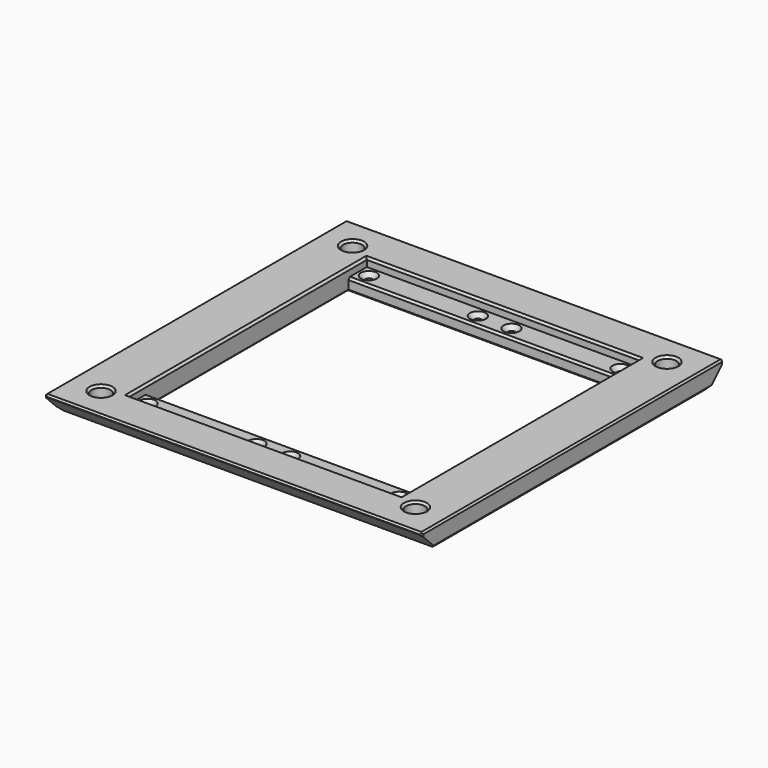
from build123d import *

# Parameters (mm, degrees)
SKETCH_W        = 90
SKETCH_H        = 90
PAD_DEPTH       = 5
SKETCH001_R     = 2.25
POCKET_DEPTH    = 5
SKETCH002_W     = 65
SKETCH002_H     = 71
POCKET001_DEPTH = 2
SKETCH003_R     = 0.9
POCKET002_DEPTH = 5
SKETCH004_W     = 65
SKETCH004_H     = 60
POCKET003_DEPTH = 3
CHAMFER_SIZE    = 4.5
CHAMFER001_SIZE = 1
CHAMFER002_SIZE = 0.5
CHAMFER003_SIZE = 0.5
CHAMFER004_SIZE = 0.5
CHAMFER005_SIZE = 0.5
CHAMFER006_SIZE = 1
CHAMFER007_SIZE = 0.5
CHAMFER008_SIZE = 0.5
CHAMFER009_SIZE = 0.4
CHAMFER010_SIZE = 0.5


with BuildPart() as part:
    # Sketch → Pad (new body)
    with BuildSketch(Plane.XY):
        with Locations((45, 45)):
            Rectangle(SKETCH_W, SKETCH_H)
    extrude(amount=PAD_DEPTH)

    # Sketch001 (on Face6 of Pad) → Pocket (cut)
    with BuildSketch(Plane.XY.offset(5)):
        with Locations((7.5, 82.5)):
            Circle(SKETCH001_R)
        with Locations((82.5, 82.5)):
            Circle(SKETCH001_R)
        with Locations((82.5, 7.5)):
            Circle(SKETCH001_R)
        with Locations((7.5, 7.5)):
            Circle(SKETCH001_R)
    extrude(amount=-POCKET_DEPTH, mode=Mode.SUBTRACT)

    # Sketch002 (on Face5 of Pocket) → Pocket001 (cut)
    with BuildSketch(Plane.XY.offset(5)):
        with Locations((45, 45)):
            Rectangle(SKETCH002_W, SKETCH002_H)
    extrude(amount=-POCKET001_DEPTH, mode=Mode.SUBTRACT)

    # Sketch003 (on Face15 of Pocket001) → Pocket002 (cut)
    with BuildSketch(Plane.XY.offset(3)):
        with Locations((15, 78)):
            Circle(SKETCH003_R)
        with Locations((41, 78)):
            Circle(SKETCH003_R)
        with Locations((41, 12)):
            Circle(SKETCH003_R)
        with Locations((15, 12)):
            Circle(SKETCH003_R)
        with Locations((49, 78)):
            Circle(SKETCH003_R)
        with Locations((75, 78)):
            Circle(SKETCH003_R)
        with Locations((75, 12)):
            Circle(SKETCH003_R)
        with Locations((49, 12)):
            Circle(SKETCH003_R)
    extrude(amount=-POCKET002_DEPTH, mode=Mode.SUBTRACT)

    # Sketch004 (on Face23 of Pocket002) → Pocket003 (cut)
    with BuildSketch(Plane.XY.offset(3)):
        with Locations((45, 45)):
            Rectangle(SKETCH004_W, SKETCH004_H)
    extrude(amount=-POCKET003_DEPTH, mode=Mode.SUBTRACT)

    # Chamfer
    chamfer_edges = [part.edges().sort_by_distance(p)[0] for p in [
        (45, 90, 0),
        (45, 0, 0),
    ]]
    chamfer(chamfer_edges, length=CHAMFER_SIZE)

    # Chamfer001
    chamfer001_edges = [part.edges().sort_by_distance(p)[0] for p in [
        (0, 45, 0),
        (90, 45, 0),
    ]]
    chamfer(chamfer001_edges, length=CHAMFER001_SIZE)

    # Chamfer002
    chamfer002_edges = [part.edges().sort_by_distance(p)[0] for p in [
        (45, 75, 0),
        (12.5, 45, 0),
        (45, 15, 0),
        (77.5, 45, 0),
    ]]
    chamfer(chamfer002_edges, length=CHAMFER002_SIZE)

    # Chamfer003
    chamfer003_edges = [part.edges().sort_by_distance(p)[0] for p in [
        (5.25, 7.5, 0),
        (80.25, 82.5, 0),
        (80.25, 7.5, 0),
        (5.25, 82.5, 0),
    ]]
    chamfer(chamfer003_edges, length=CHAMFER003_SIZE)

    # Chamfer004
    chamfer004_edges = [part.edges().sort_by_distance(p)[0] for p in [
        (14.1, 78, 0),
        (14.1, 12, 0),
        (40.1, 78, 0),
        (48.1, 12, 0),
        (40.1, 12, 0),
        (48.1, 78, 0),
        (74.1, 12, 0),
        (74.1, 78, 0),
    ]]
    chamfer(chamfer004_edges, length=CHAMFER004_SIZE)

    # Chamfer005
    chamfer005_edges = [part.edges().sort_by_distance(p)[0] for p in [
        (5.25, 7.5, 5),
        (80.25, 7.5, 5),
        (80.25, 82.5, 5),
        (5.25, 82.5, 5),
    ]]
    chamfer(chamfer005_edges, length=CHAMFER005_SIZE)

    # Chamfer006
    chamfer006_edges = [part.edges().sort_by_distance(p)[0] for p in [
        (74.1, 78, 3),
        (48.1, 78, 3),
        (14.1, 78, 3),
        (14.1, 12, 3),
        (40.1, 12, 3),
        (74.1, 12, 3),
        (48.1, 12, 3),
        (40.1, 78, 3),
    ]]
    chamfer(chamfer006_edges, length=CHAMFER006_SIZE)

    # Chamfer007
    chamfer007_edges = [part.edges().sort_by_distance(p)[0] for p in [
        (77.5, 45, 5),
        (45, 80.5, 5),
        (12.5, 45, 5),
        (45, 9.5, 5),
    ]]
    chamfer(chamfer007_edges, length=CHAMFER007_SIZE)

    # Chamfer008
    chamfer008_edges = [part.edges().sort_by_distance(p)[0] for p in [
        (45, 15, 3),
        (45, 75, 3),
    ]]
    chamfer(chamfer008_edges, length=CHAMFER008_SIZE)

    # Chamfer009
    chamfer009_edges = [part.edges().sort_by_distance(p)[0] for p in [
        (90, 45, 5),
        (45, 90, 5),
        (0, 45, 5),
        (45, 0, 5),
    ]]
    chamfer(chamfer009_edges, length=CHAMFER009_SIZE)

    # Chamfer010
    chamfer010_edges = [part.edges().sort_by_distance(p)[0] for p in [
        (90, 0, 4.55),
        (90, 90, 4.55),
        (0, 90, 4.55),
        (0, 0, 4.55),
    ]]
    chamfer(chamfer010_edges, length=CHAMFER010_SIZE)


solid = part.part
